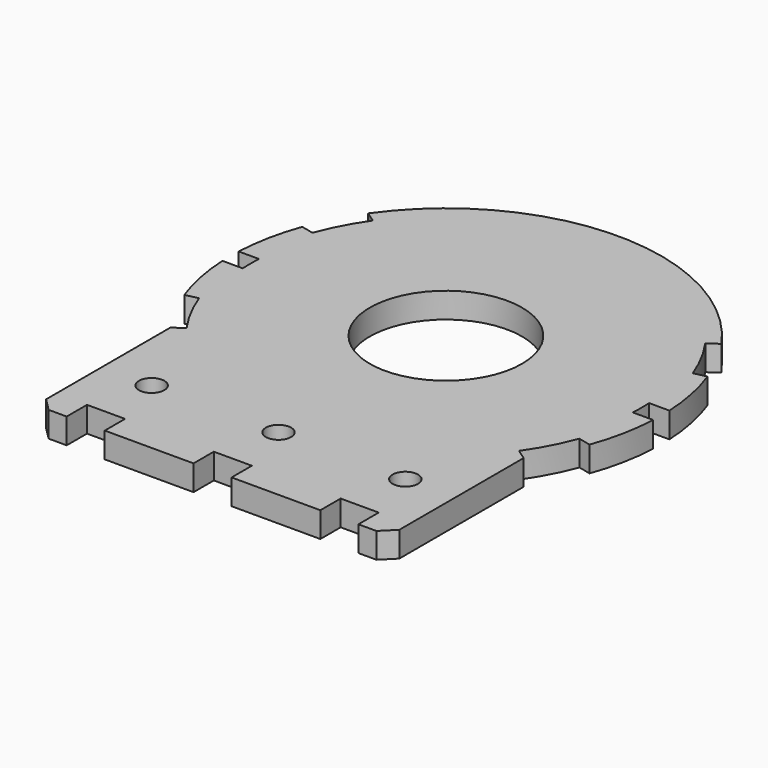
from build123d import *

# Parameters (mm, degrees)
SKETCH006_R     = 3
PAD005_DEPTH    = 1
SKETCH012_R     = 0.5
POCKET002_DEPTH = 2
POCKET003_DEPTH = 5
CHAMFER_SIZE    = 0.5


with BuildPart() as part:
    # Sketch006 (on ShapeBinder) → Pad005 (new body)
    with BuildSketch(Plane(origin=(0, 0, 0), x_dir=(1, 0, 0), z_dir=(0, 0, -1))):
        with BuildLine():
            ThreePointArc((-7.987387, 2.907171), (-8.333808, 1.672617), (-8.490583, 0.4))
            Line((-7.689603, 0.4), (-8.490583, 0.4))
            ThreePointArc((-7.689603, 0.4), (-7.7, 0), (-7.689603, -0.4))
            Line((-7.689603, -0.4), (-8.490583, -0.4))
            ThreePointArc((-8.490583, -0.4), (-8.333808, -1.672617), (-7.987387, -2.907171))
            Line((-7.987387, -2.907171), (-7.496671, -2.792834))
            ThreePointArc((-7.496671, -2.792834), (-7.082093, -3.720747), (-6.553216, -4.588611))
            Line((-6.962792, -4.8754), (-6.553216, -4.588611))
            ThreePointArc((-6.962792, -4.8754), (0, -8.5), (6.962792, -4.8754))
            Line((6.962792, -4.8754), (6.553216, -4.588611))
            ThreePointArc((6.553216, -4.588611), (7.082093, -3.720747), (7.496671, -2.792834))
            Line((7.987387, -2.907171), (7.496671, -2.792834))
            ThreePointArc((7.987387, -2.907171), (8.333808, -1.672617), (8.490583, -0.4))
            Line((8.490583, -0.4), (7.689603, -0.4))
            ThreePointArc((7.689603, -0.4), (7.7, 0), (7.689603, 0.4))
            Line((8.490583, 0.4), (7.689603, 0.4))
            ThreePointArc((8.490583, 0.4), (8.333808, 1.672617), (7.987387, 2.907171))
            Line((7.987387, 2.907171), (7.496671, 2.792834))
            ThreePointArc((7.496671, 2.792834), (7.082093, 3.720747), (6.553216, 4.588611))
            Line((6.962792, 4.8754), (6.553216, 4.588611))
            Line((6.962792, 4.8754), (6.962792, 11.5))
            Line((6.962792, 11.5), (-6.962792, 11.5))
            Line((-6.962792, 4.8754), (-6.962792, 11.5))
            Line((-6.962792, 4.8754), (-6.553216, 4.588611))
            ThreePointArc((-6.553216, 4.588611), (-7.082093, 3.720747), (-7.496671, 2.792834))
            Line((-7.987387, 2.907171), (-7.496671, 2.792834))
        make_face()
        Circle(SKETCH006_R, mode=Mode.SUBTRACT)
    extrude(amount=PAD005_DEPTH)

    # Sketch012 (on Face28 of Pad005) → Pocket002 (cut)
    with BuildSketch(Plane.XY):
        with Locations((0, -8.25)):
            Circle(SKETCH012_R)
        with Locations((-5, -8.25)):
            Circle(SKETCH012_R)
        with Locations((5, -8.25)):
            Circle(SKETCH012_R)
    extrude(amount=-POCKET002_DEPTH, mode=Mode.SUBTRACT)

    # Sketch013 (on Face4 of Pocket002) → Pocket003 (cut)
    with BuildSketch(Plane.XY):
        Polygon((-6.962792, -11.5), (-5.75, -11.5), (-5.75, -10.5), (-4.25, -10.5), (-4.25, -11.5), (-0.75, -11.5), (-0.75, -10.5), (0.75, -10.5), (0.75, -11.5), (4.25, -11.5), (4.25, -10.5), (5.75, -10.5), (5.75, -11.5), (6.962792, -11.5), (6.962792, -12.871278), (-6.962792, -12.871278), align=None)
    extrude(amount=-POCKET003_DEPTH, mode=Mode.SUBTRACT)

    # Chamfer
    chamfer_edges = [part.edges().sort_by_distance(p)[0] for p in [
        (-6.962792, -11.5, -0.5),
        (6.962792, -11.5, -0.5),
    ]]
    chamfer(chamfer_edges, length=CHAMFER_SIZE)


solid = part.part
